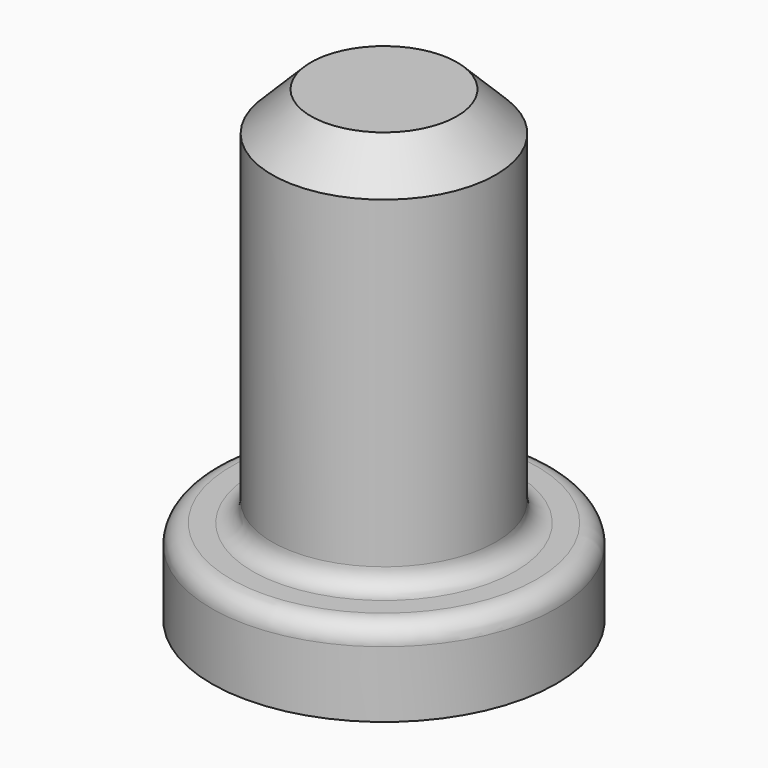
from build123d import *

# Parameters (mm, degrees)
F0_R     = 2.875
F1_DEPTH = 12
F0_R_2   = 4.425
F2_DEPTH = 2.2
F3_SIZE  = 1
F4_R     = 0.5


with BuildPart() as f1:
    # F0 (on Top) → F1 (new body)
    with BuildSketch(Plane.XY):
        Circle(F0_R)
    extrude(amount=F1_DEPTH)

    # F0 (on Top) → F2 (join)
    with BuildSketch(Plane.XY):
        Circle(F0_R_2)
        Circle(F0_R, mode=Mode.SUBTRACT)
    extrude(amount=F2_DEPTH)

    # F3
    f3_edges = [f1.edges().sort_by_distance(p)[0] for p in [
        (-2.875, 0, 12),
    ]]
    chamfer(f3_edges, length=F3_SIZE)

    # F4
    f4_edges = [f1.edges().sort_by_distance(p)[0] for p in [
        (-4.425, 0, 2.2),
        (-2.875, 0, 2.2),
    ]]
    fillet(f4_edges, radius=F4_R)


solid = f1.part
